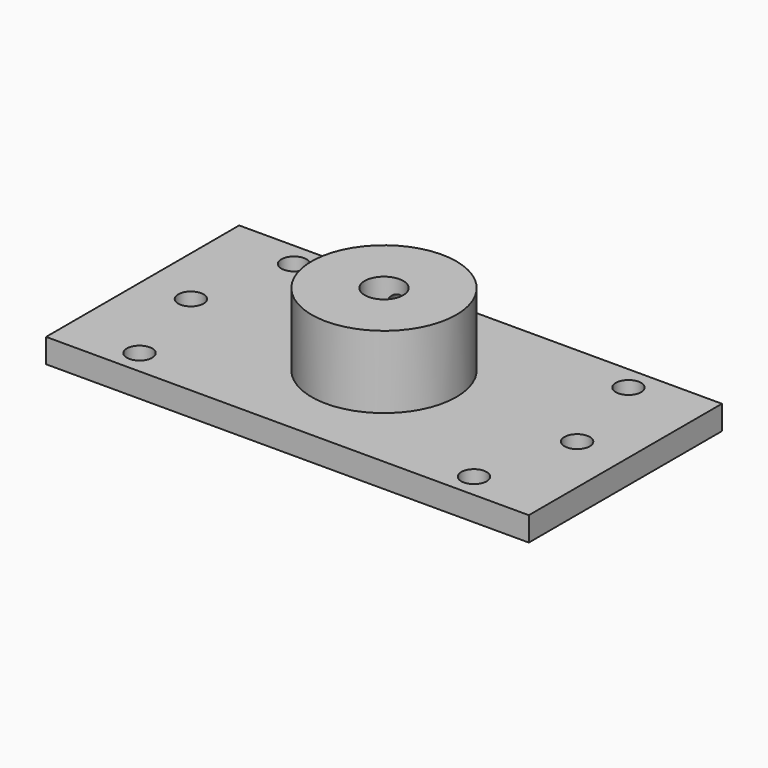
from build123d import *

# Parameters (mm, degrees)
F0_W     = 100
F0_H     = 50
F1_DEPTH = 5
F2_R     = 15
F3_DEPTH = 15
F4_R     = 4
F5_DEPTH = 20.001
F7_D     = 5.25
F8_R     = 2.15
F9_DEPTH = 25.001


with BuildPart() as f1:
    # F0 (on Top) → F1 (new body)
    with BuildSketch(Plane.XY):
        Rectangle(F0_W, F0_H)
    extrude(amount=F1_DEPTH)

    # F2 (on face) → F3 (join)
    with BuildSketch(Plane.XY.offset(5)):
        Circle(F2_R)
    extrude(amount=F3_DEPTH)

    # F4 (on face) → F5 (cut, through all)
    with BuildSketch(Plane.XY.offset(20)):
        Circle(F4_R)
    extrude(amount=-F5_DEPTH, mode=Mode.SUBTRACT)

    # F7 (through all)
    with Locations(Plane.XY.offset(5)):
        with Locations((-34.6410161514, 20), (-40, 0), (-34.6410161514, -20), (34.6410161514, 20), (40, 0), (34.6410161514, -20)):
            Hole(F7_D / 2)

    # F8 (on Front) → F9 (cut, through all)
    with BuildSketch(Plane.XZ):
        with Locations((0, 15)):
            Circle(F8_R)
    extrude(amount=-F9_DEPTH, mode=Mode.SUBTRACT)


solid = f1.part
